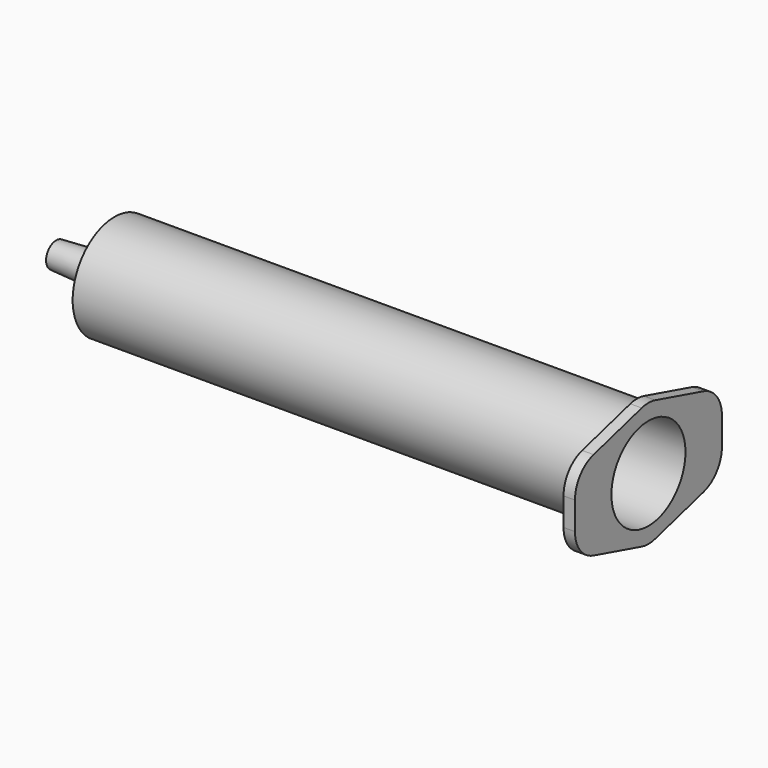
from build123d import *

# Parameters (mm, degrees)
F2_R     = 7.31
F3_DEPTH = 1.8
F4_R     = 5


with BuildPart() as f1:
    # F0 (on Top) → F1 (revolve)
    with BuildSketch(Plane.XY):
        Polygon((91.7, 8.25), (9.2, 8.25), (6.95, 2.4), (0, 2), (0, 1.300344), (7.704519, 1.74377), (9.845377, 7.31), (91.7, 7.31), align=None)
    revolve(axis=Axis((40.51489, 0, 0), (1, 0, 0)))

    # F2 (on face) → F3 (join)
    with BuildSketch(Plane.YZ.offset(91.7)):
        Polygon((-14.5, 6), (-14.5, 0), (-14.5, -6), (0, -10), (14.5, -6), (14.5, 0), (14.5, 6), (0, 10), align=None)
        Circle(F2_R, mode=Mode.SUBTRACT)
    extrude(amount=F3_DEPTH)

    # F4
    f4_edges = [f1.edges().sort_by_distance(p)[0] for p in [
        (92.6, -14.5, 6),
        (92.6, -14.5, -6),
        (92.6, 0, -10),
        (92.6, 14.5, -6),
        (92.6, 14.5, 6),
        (92.6, 0, 10),
    ]]
    fillet(f4_edges, radius=F4_R)


solid = f1.part
